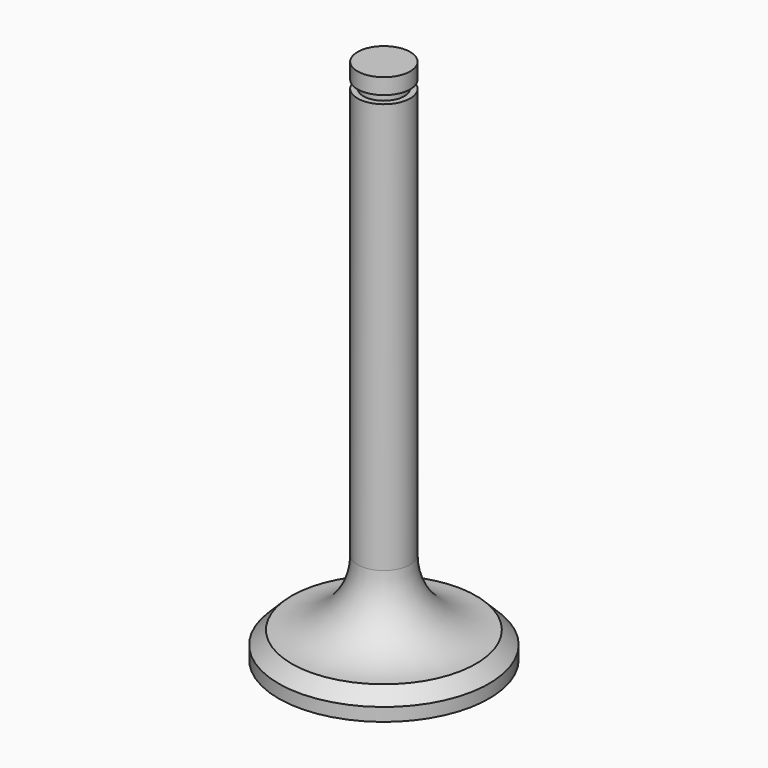
from build123d import *


with BuildPart() as f1:
    # F0 (on Front) → F1 (revolve)
    with BuildSketch(Plane.XZ):
        with BuildLine():
            Line((-20.32, -9.636289), (0, -9.636289))
            Line((0, -9.636289), (0, 91.963711))
            Line((0, 91.963711), (-5.08, 91.963711))
            Line((-5.08, 91.963711), (-5.08, 88.915711))
            Line((-5.08, 88.915711), (-3.937, 88.915711))
            Line((-3.937, 88.915711), (-3.937, 87.366311))
            Line((-3.937, 87.366311), (-5.08, 87.366311))
            Line((-5.08, 87.366311), (-5.08, 8.143711))
            ThreePointArc((-5.08, 8.143711), (-8.799856, -0.836816), (-17.780384, -4.556672))
            Line((-17.780384, -4.556672), (-20.32, -7.096289))
            Line((-20.32, -7.096289), (-20.32, -9.636289))
        make_face()
    revolve(axis=Axis((0, 0, 40.559225), (0, 0, -1)))


solid = f1.part
